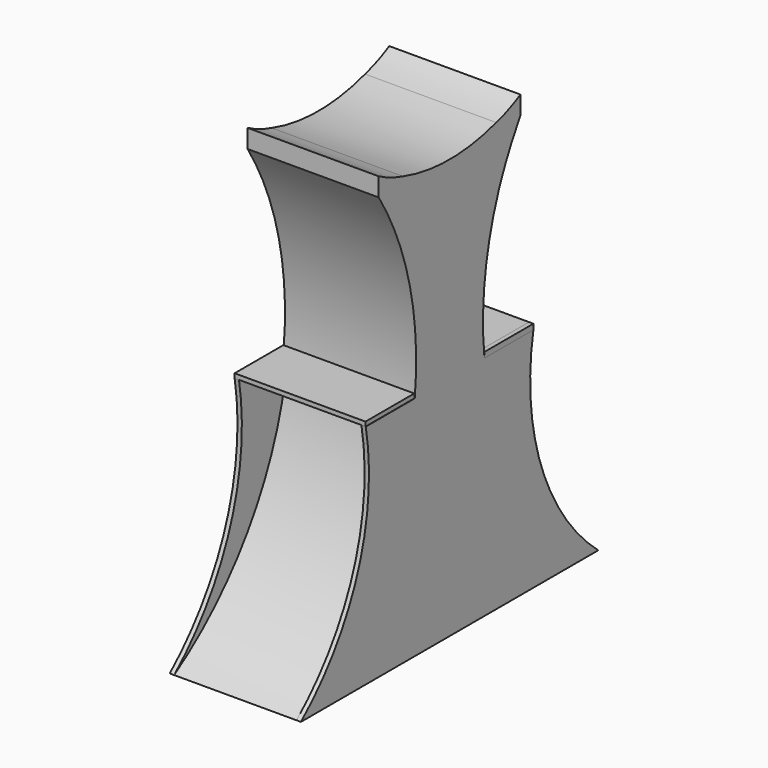
from build123d import *

# Parameters (mm, degrees)
F1_DEPTH  = 600
F3_DEPTH  = 600.001
F5_DEPTH  = 20
F7_DEPTH  = 20
F8_W      = 580
F8_H      = 280
F9_DEPTH  = 25
F10_DEPTH = 20
F11_W     = 20
F11_H     = 278.7190201738
F11_W_2   = 578.8190174103
F12_DEPTH = 20


with BuildPart() as f1:
    # F0 (on Right) → F1 (new body)
    with BuildSketch(Plane.YZ):
        with BuildLine():
            ThreePointArc((-413.7737442203, 1932.6941884178), (-235.6171133469, 874.7152717166), (-858.6646769196, 1.2904570733))
            Line((-858.6646769196, 1.2904570733), (841.3353230804, 1.2904570733))
            ThreePointArc((841.3353230804, 1.2904570733), (218.2877610308, 874.7152723164), (396.4443930804, 1932.6941884178))
            Line((396.4443930804, 1932.6941884178), (396.4443930804, 2017.6941884178))
            ThreePointArc((396.4443930804, 2017.6941884178), (199.7456261802, 1948.7680536266), (-8.6646769196, 1951.2904570733))
            ThreePointArc((-8.6646769196, 1951.2904570733), (-217.0749786293, 1948.7680541113), (-413.7737442203, 2017.6941884178))
            Line((-413.7737442203, 2017.6941884178), (-413.7737442203, 1932.6941884178))
        make_face()
    extrude(amount=F1_DEPTH)

    # F2 (on face) → F3 (cut, through all)
    with BuildSketch(Plane.YZ.offset(600)):
        with BuildLine():
            Line((396.4443930804, 2017.6941884178), (-413.7737442203, 2017.6941884178))
            ThreePointArc((-413.7737442203, 2017.6941884178), (-345.7057427079, 1986.5957603046), (-275.2746839195, 1961.3008790249))
            ThreePointArc((-275.2746839195, 1961.3008790249), (-142.5331399832, 1941.2889121961), (-8.6646769196, 1951.2904570733))
            ThreePointArc((-8.6646769196, 1951.2904570733), (125.2037851776, 1941.2889117025), (257.9453283126, 1961.3008776288))
            ThreePointArc((257.9453283126, 1961.3008776288), (328.3763894007, 1986.5957594221), (396.4443930804, 2017.6941884178))
        make_face()
        with BuildLine():
            ThreePointArc((-8.6646769196, 1951.2904570733), (-142.5331399832, 1941.2889121961), (-275.2746839195, 1961.3008790249))
            ThreePointArc((-275.2746839195, 1961.3008790249), (-8.66467791, 1920.6086514411), (257.9453283126, 1961.3008776288))
            ThreePointArc((257.9453283126, 1961.3008776288), (125.2037851776, 1941.2889117025), (-8.6646769196, 1951.2904570733))
        make_face()
    extrude(amount=-F3_DEPTH, mode=Mode.SUBTRACT)

    # F4 (on face) → F5 (join)
    with BuildSketch(Plane.YZ.offset(600)):
        with BuildLine():
            ThreePointArc((-487.8719790556, 1039.6971702576), (-533.5033840935, 470.5867589871), (-858.6646769196, 1.2904570733))
            ThreePointArc((-858.6646769196, 1.2904570733), (-413.6127871917, 445.5030116798), (-207.8719790556, 1039.6971702576))
            Line((-207.8719790556, 1039.6971702576), (-487.8719790556, 1039.6971702576))
        make_face()
        with BuildLine():
            ThreePointArc((190.5426270267, 1039.6971702576), (396.283434362, 445.5030119538), (841.3353230804, 1.2904570733))
            ThreePointArc((841.3353230804, 1.2904570733), (516.1740306428, 470.5867590462), (470.5426270267, 1039.6971702576))
            Line((470.5426270267, 1039.6971702576), (190.5426270267, 1039.6971702576))
        make_face()
    extrude(amount=-F5_DEPTH)

    # F6 (on face) → F7 (join)
    with BuildSketch(Plane(origin=(0, 0, 0), x_dir=(0, -1, 0), z_dir=(-1, 0, 0))):
        with BuildLine():
            ThreePointArc((-841.3353230804, 1.2904570733), (-396.5475396439, 445.0817710452), (-190.6490020093, 1038.7085012816))
            Line((-190.6490020093, 1038.7085012816), (-470.6490020093, 1038.7085012816))
            ThreePointArc((-470.6490020093, 1038.7085012816), (-519.6815928842, 471.2934981386), (-841.3353230804, 1.2904570733))
        make_face()
        with BuildLine():
            ThreePointArc((207.878498719, 1039.6363848164), (413.6290200403, 445.4771111279), (858.6646769196, 1.2904570733))
            ThreePointArc((858.6646769196, 1.2904570733), (536.7100272294, 471.698228356), (487.878498719, 1039.6363848164))
            Line((487.878498719, 1039.6363848164), (207.878498719, 1039.6363848164))
        make_face()
    extrude(amount=-F7_DEPTH)

    # F11 (on face) → F12 (join)
    with BuildSketch(Plane.XY.offset(1039.6363848164)):
        with Locations((10, -348.5189886321)):
            Rectangle(F11_W, F11_H)
        with Locations((309.4095087051, -348.5189886321)):
            Rectangle(F11_W_2, F11_H)
    extrude(amount=F12_DEPTH)


with BuildPart() as f9:
    # F8 (on face) → F9 (new body)
    with BuildSketch(Plane.XY.offset(1039.6971702576)):
        with Locations((290, 330.5426270267)):
            Rectangle(F8_W, F8_H)
    extrude(amount=F9_DEPTH)


with BuildPart() as f10:
    # F10 (new): a face of the model
    f10_faces = [f9.part.faces().sort_by_distance(p)[0] for p in [
        (580, 330.5426270267, 1052.1971702576),
    ]]
    extrude(f10_faces, amount=F10_DEPTH)


solid = Compound([f1.part, f9.part, f10.part])
